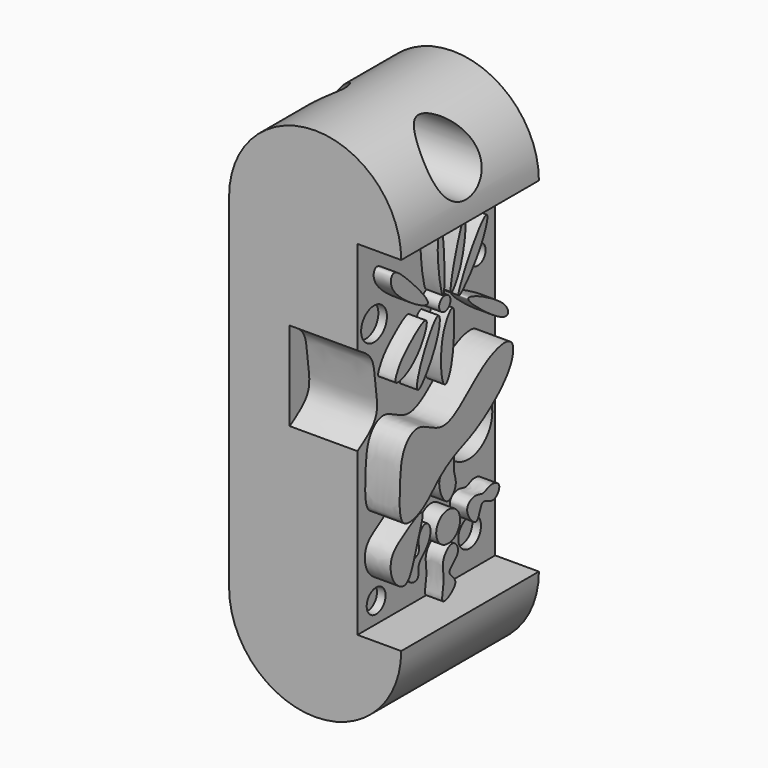
from build123d import *

# Parameters (mm, degrees)
F0_W      = 18.9466625452
F0_H      = 50.8
F1_DEPTH  = 25.4
F3_DEPTH  = 2.54
F5_DEPTH  = 2.54
F7_DEPTH  = 2.54
F9_DEPTH  = 2.54
F10_R     = 2.2037661108
F11_DEPTH = 2.54
F13_DEPTH = 2.54
F14_R     = 1.0473543245
F15_DEPTH = 2.54
F16_R     = 4.4029393082
F17_DEPTH = 2.54
F19_DEPTH = 5.08
F21_DEPTH = 3.81
F22_R     = 1.460983402
F22_R_2   = 0.8761261726
F22_R_3   = 1.1998887947
F22_R_4   = 2.3822273237
F22_R_5   = 0.7813065252
F22_R_6   = 1.0693889774
F22_R_7   = 2.0974618181
F22_R_8   = 1.7434208878
F23_DEPTH = 1.27
F25_DEPTH = 10
F26_R     = 4.1855782258
F27_DEPTH = 30
F28_R     = 4.3688404115
F29_DEPTH = 30


with BuildPart() as f1:
    # F0 (on Front) → F1 (new body)
    with BuildSketch(Plane.XZ):
        with Locations((9.4733312726, 25.4)):
            Rectangle(F0_W, F0_H)
        with BuildLine():
            ThreePointArc((25.4, 50.8), (12.7, 63.5), (0, 50.8))
            Line((0, 50.8), (18.9466625452, 50.8))
            Line((18.9466625452, 50.8), (25.4, 50.8))
        make_face()
        with BuildLine():
            Line((18.9466625452, 0), (0, 0))
            ThreePointArc((0, 0), (12.7, -12.7), (25.4, 0))
            Line((25.4, 0), (18.9466625452, 0))
        make_face()
    extrude(amount=F1_DEPTH)

    # F2 (on face) → F3 (join)
    with BuildSketch(Plane.YZ.offset(18.9466625452)):
        with BuildLine():
            add(Edge.make_bspline(
                [(-12.7, 0), (-12.1587068574, -0.186421223), (-9.1969725356, 1.6701898847), (-12.7819987666, 3.3689946826), (-9.2587764915, 5.0029186659), (-10.9635852494, 7.6674219674), (-13.3264466897, 5.3689109873), (-12.2777824387, 2.859032607), (-13.2255103376, 0.1809856289), (-12.7, 0)],
                knots=[0, 0, 0, 0, 0.1523574371, 0.2848373169, 0.4303792872, 0.5559419632, 0.6935722887, 0.852084939, 1, 1, 1, 1], degree=3))
        make_face()
    extrude(amount=F3_DEPTH)

    # F4 (on face) → F5 (join)
    with BuildSketch(Plane.YZ.offset(18.9466625452)):
        with BuildLine():
            add(Edge.make_bspline(
                [(-19.05, 5.1723495126), (-19.4676667532, 5.7480486345), (-18.8380971455, 7.7744991793), (-16.8329186801, 7.9006968747), (-17.7052345676, 10.2787269645), (-15.9676377207, 12.0297018569), (-14.713319284, 10.2458093106), (-15.8014853333, 7.9636604801), (-17.7105856123, 6.7550427596), (-16.9534289215, 4.4899133227), (-18.7043333124, 4.6958930865), (-19.05, 5.1723495126)],
                knots=[0, 0, 0, 0, 0.1239474728, 0.2239006727, 0.3401700303, 0.4492065796, 0.5476283947, 0.67433429, 0.7936623829, 0.8974193852, 1, 1, 1, 1], degree=3))
        make_face()
    extrude(amount=F5_DEPTH)

    # F6 (on face) → F7 (join)
    with BuildSketch(Plane.YZ.offset(18.9466625452)):
        with BuildLine():
            add(Edge.make_bspline(
                [(-12.0711624622, 12.7573236823), (-11.4367969336, 12.5809759526), (-9.930944509, 14.1377853484), (-11.0370818754, 16.2251107005), (-10.5445469328, 18.0899061765), (-11.9527375102, 21.2721387382), (-12.800618147, 16.9117405663), (-13.9329669541, 15.9171914125), (-12.8567334616, 12.9757051296), (-12.0711624622, 12.7573236823)],
                knots=[0, 0, 0, 0, 0.1357388721, 0.273513971, 0.4115631689, 0.5425887856, 0.7045688045, 0.8319068162, 1, 1, 1, 1], degree=3))
        make_face()
    extrude(amount=F7_DEPTH)

    # F8 (on face) → F9 (join)
    with BuildSketch(Plane.YZ.offset(18.9466625452)):
        with BuildLine():
            add(Edge.make_bspline(
                [(-8.3441883326, 10.1769361645), (-8.320056966, 10.9401703438), (-6.7873812738, 11.6821238495), (-5.342859624, 10.7781428021), (-4.1922333759, 11.9050739461), (-1.7399280852, 11.2243552708), (-3.4361736571, 8.6409088637), (-5.8925577474, 11.0342997762), (-6.2222248998, 6.4557549482), (-8.3734810962, 9.2504557541), (-8.3441883326, 10.1769361645)],
                knots=[0, 0, 0, 0, 0.1246108644, 0.2350107813, 0.3427220566, 0.461856938, 0.5834474213, 0.7127028173, 0.8487364325, 1, 1, 1, 1], degree=3))
        make_face()
    extrude(amount=F9_DEPTH)

    # F10 (on face) → F11 (join)
    with BuildSketch(Plane.YZ.offset(18.9466625452)):
        with Locations((-11.8481758982, 9.3916803598)):
            Circle(F10_R)
    extrude(amount=F11_DEPTH)

    # F12 (on face) → F13 (join)
    with BuildSketch(Plane.YZ.offset(18.9466625452)):
        with BuildLine():
            add(Edge.make_bspline(
                [(-15.9412715584, 37.8425680101), (-16.4599835343, 38.1529996788), (-19.891275436, 35.3347747815), (-20.9513538421, 33.8732644194), (-22.298560563, 31.2201488002), (-17.3643612808, 32.8414492587), (-15.3920591024, 37.51388283), (-15.9412715584, 37.8425680101)],
                knots=[0, 0, 0, 0, 0.2273545918, 0.403395234, 0.5422844026, 0.7592768635, 1, 1, 1, 1], degree=3))
        make_face()
        with BuildLine():
            add(Edge.make_bspline(
                [(-15.6496744603, 39.8572906852), (-15.1360683338, 40.208744889), (-19.7316768365, 45.124463423), (-22.2108583757, 47.079159636), (-23.0450446539, 43.6487662378), (-16.2102746602, 39.4736790287), (-15.6496744603, 39.8572906852)],
                knots=[0, 0, 0, 0, 0.3013413171, 0.4984679094, 0.6710864729, 1, 1, 1, 1], degree=3))
        make_face()
        with BuildLine():
            add(Edge.make_bspline(
                [(-13.093996793, 48.7732067704), (-13.3700980694, 49.3022797668), (-14.3216212376, 46.2645126057), (-12.1172625697, 34.2225792128), (-12.5600894495, 47.7501185698), (-13.093996793, 48.7732067704)],
                knots=[0, 0, 0, 0, 0.2168902151, 0.5805912956, 1, 1, 1, 1], degree=3))
        make_face()
        with BuildLine():
            add(Edge.make_bspline(
                [(-11.3084185869, 39.6522730589), (-11.6745395246, 40.0885909503), (-10.0499884165, 46.1826032552), (-8.3069572408, 50.0403093232), (-8.8120334679, 42.6215044235), (-11.0460895976, 39.3396473126), (-11.3084185869, 39.6522730589)],
                knots=[0, 0, 0, 0, 0.3096002981, 0.4918508665, 0.7781685643, 1, 1, 1, 1], degree=3))
        make_face()
        with BuildLine():
            add(Edge.make_bspline(
                [(-9.8847821355, 38.6147089303), (-10.2641676442, 38.8681195069), (-7.3475032709, 44.6080636696), (-4.0295370076, 48.3340183153), (-5.2681860616, 43.2176057853), (-9.5080921651, 38.3630988386), (-9.8847821355, 38.6147089303)],
                knots=[0, 0, 0, 0, 0.2865502063, 0.4982687259, 0.7154857362, 1, 1, 1, 1], degree=3))
        make_face()
        with BuildLine():
            add(Edge.make_bspline(
                [(-8.0946544185, 37.5679135323), (-7.5740868469, 37.8618887854), (-0.9790549856, 34.6530871044), (-0.5001687291, 31.7044634891), (-4.2698106136, 33.7033312857), (-8.5291807406, 37.3225275488), (-8.0946544185, 37.5679135323)],
                knots=[0, 0, 0, 0, 0.3310804974, 0.4899534876, 0.7236416582, 1, 1, 1, 1], degree=3))
        make_face()
        with BuildLine():
            add(Edge.make_bspline(
                [(-10.7293128967, 36.4189296961), (-10.6481049738, 34.8011686243), (-10.8525102266, 30.0190099959), (-12.9876015825, 26.5691960414), (-13.6573586062, 34.6039540936), (-10.9548430259, 38.2259802602), (-10.762670421, 37.0834523465), (-10.7293128967, 36.4189296961)],
                knots=[0, 0, 0, 0, 0.2744228725, 0.4222272432, 0.6882010074, 0.8872761759, 1, 1, 1, 1], degree=3))
        make_face()
        with BuildLine():
            add(Edge.make_bspline(
                [(-13.721363619, 37.5530123711), (-14.4497998914, 37.4682734483), (-17.5042396654, 32.1501550566), (-17.9086044815, 27.653236669), (-13.3059752224, 34.3446549325), (-13.2503910693, 37.6078005633), (-13.721363619, 37.5530123711)],
                knots=[0, 0, 0, 0, 0.3100138558, 0.4962902609, 0.7995596572, 1, 1, 1, 1], degree=3))
        make_face()
    extrude(amount=F13_DEPTH)

    # F14 (on face) → F15 (join)
    with BuildSketch(Plane.YZ.offset(18.9466625452)):
        with Locations((-12.4654732645, 38.6147387326)):
            Circle(F14_R)
    extrude(amount=F15_DEPTH)

    # F16 (on face) → F17 (cut)
    with BuildSketch(Plane.YZ.offset(18.9466625452)):
        with Locations((-4.9326894805, 18.8860446215)):
            Circle(F16_R)
    extrude(amount=-F17_DEPTH, mode=Mode.SUBTRACT)

    # F18 (on face) → F19 (join)
    with BuildSketch(Plane.YZ.offset(18.9466625452)):
        with BuildLine():
            add(Edge.make_bspline(
                [(-23.1685712934, 15.2417980134), (-22.3854114778, 14.6366031784), (-19.2684715864, 15.5490991832), (-16.9750424784, 18.5224602193), (-13.2351329617, 20.7209840815), (-9.9087599587, 21.6906775308), (-3.0723412858, 26.6384901245), (-2.6395408303, 31.9439683504), (-9.1287825512, 30.4097311386), (-15.3087659566, 22.8164756622), (-20.2874916771, 27.6106681471), (-23.6995879494, 25.0221215813), (-23.9248238363, 20.4016395773), (-24.1059658959, 15.9661793729), (-23.1685712934, 15.2417980134)],
                knots=[0, 0, 0, 0, 0.0711045703, 0.1476766262, 0.2244724336, 0.2979131955, 0.4080768304, 0.4786013556, 0.5641273371, 0.6777398914, 0.7629231677, 0.8300250604, 0.9148921598, 1, 1, 1, 1], degree=3))
        make_face()
    extrude(amount=F19_DEPTH)

    # F20 (on face) → F21 (join)
    with BuildSketch(Plane.YZ.offset(18.9466625452)):
        with BuildLine():
            add(Edge.make_bspline(
                [(-23.8294545561, 10.6006283313), (-23.4947747744, 11.4335393387), (-21.981735164, 12.4942936977), (-17.1763212025, 15.4872094726), (-19.2311995145, 10.912032711), (-20.621450181, 4.7573700994), (-24.0776370889, 7.4299235), (-24.1709015099, 9.7508759954), (-23.8294545561, 10.6006283313)],
                knots=[0, 0, 0, 0, 0.1532888673, 0.3271130329, 0.4885520691, 0.6973485205, 0.8436116561, 1, 1, 1, 1], degree=3))
        make_face()
    extrude(amount=F21_DEPTH)

    # F22 (on face) → F23 (cut)
    with BuildSketch(Plane.YZ.offset(18.9466625452)):
        with Locations((-3.2262913883, 40.4002405703)):
            Circle(F22_R)
        with Locations((-2.1561626345, 27.8180986643)):
            Circle(F22_R_2)
        with Locations((-8.8824778795, 32.6976887882)):
            Circle(F22_R_3)
        with Locations((-22.3465077579, 39.1590669751)):
            Circle(F22_R_4)
        with Locations((-18.1392524391, 49.5709590614)):
            Circle(F22_R_5)
        with Locations((-15.6395584345, 15.6808272004)):
            Circle(F22_R_6)
        with Locations((-4.7130216844, 4.9145147204)):
            Circle(F22_R_7)
        with Locations((-21.9584498554, 3.0254796147)):
            Circle(F22_R_8)
    extrude(amount=-F23_DEPTH, mode=Mode.SUBTRACT)

    # F24 (on face) → F25 (cut)
    with BuildSketch(Plane.YZ.offset(18.9466625452)):
        with BuildLine():
            add(Edge.make_bspline(
                [(-25.4, 36.9402728975), (-24.3854230216, 36.3314319699), (-22.2965318819, 35.0779026501), (-22.2658578991, 31.1301388709), (-21.1575912175, 26.5905444144), (-23.9638000112, 24.7904233309), (-25.4, 23.8691344857)],
                knots=[0, 0, 0, 0, 0.2297701488, 0.4730688801, 0.7303202362, 1, 1, 1, 1], degree=3))
            Line((-25.4, 36.9402728975), (-25.4, 23.8691344857))
        make_face()
    extrude(amount=-F25_DEPTH, mode=Mode.SUBTRACT)

    # F26 (on Right) → F27 (cut)
    with BuildSketch(Plane.YZ):
        with Locations((-12.6720517874, 58.0905079842)):
            Circle(F26_R)
    extrude(amount=-F27_DEPTH, mode=Mode.SUBTRACT)

    # F28 (on Right) → F29 (cut)
    with BuildSketch(Plane.YZ):
        with Locations((-13.0914794281, 57.9255223274)):
            Circle(F28_R)
    extrude(amount=F29_DEPTH, mode=Mode.SUBTRACT)


solid = f1.part
